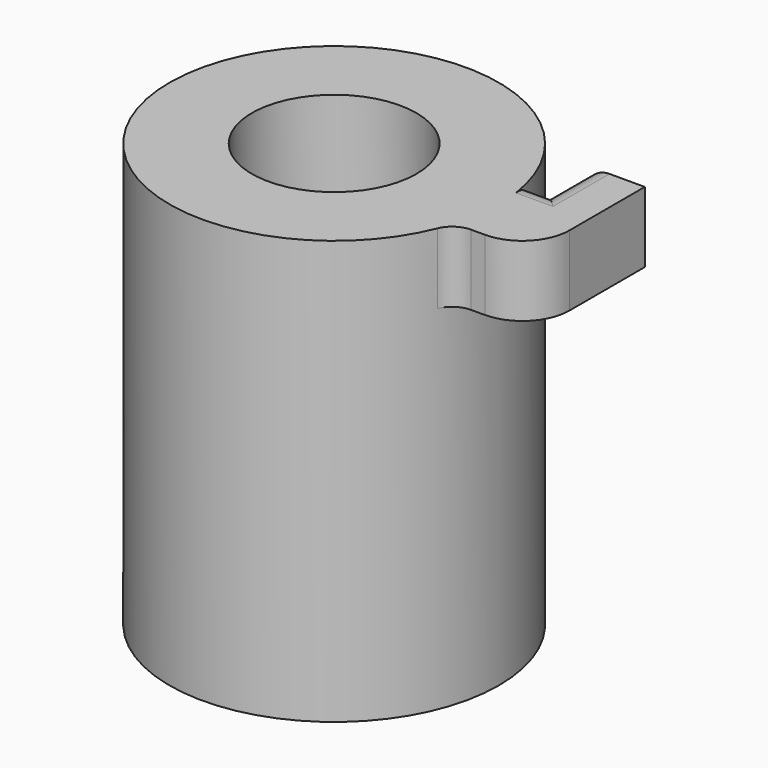
from build123d import *

# Parameters (mm, degrees)
SKETCH059_R     = 3.9
PAD013_DEPTH    = 10
SKETCH060_R     = 7
PAD014_DEPTH    = 8
SKETCH061_R     = 3.5
POCKET033_DEPTH = 6
SKETCH062_R     = 7
SKETCH062_R_2   = 5.1
PAD015_DEPTH    = 10
PAD016_DEPTH    = 3
FILLET014_R     = 2
FILLET015_R     = 1
FILLET016_R     = 1


with BuildPart() as part:
    # Sketch059 → Pad013 (new body)
    with BuildSketch(Plane.XY):
        Circle(SKETCH059_R)
    extrude(amount=PAD013_DEPTH)

    # Sketch060 → Pad014 (join)
    with BuildSketch(Plane.XY.offset(10)):
        Circle(SKETCH060_R)
    extrude(amount=PAD014_DEPTH)

    # Sketch061 → Pocket033 (cut)
    with BuildSketch(Plane.XY.offset(18)):
        Circle(SKETCH061_R)
    extrude(amount=-POCKET033_DEPTH, mode=Mode.SUBTRACT)

    # Sketch062 → Pad015 (join)
    with BuildSketch(Plane.XY.offset(10)):
        Circle(SKETCH062_R)
        Circle(SKETCH062_R_2, mode=Mode.SUBTRACT)
    extrude(amount=-PAD015_DEPTH)

    # Sketch063 → Pad016 (join)
    with BuildSketch(Plane.XY.offset(18)):
        Polygon((6, 2), (7.5, 2), (7.5, 4), (10, 4), (10, 2), (10, -2), (6, -2), align=None)
    extrude(amount=-PAD016_DEPTH)

    # Fillet014
    fillet014_edges = [part.edges().sort_by_distance(p)[0] for p in [
        (10, -2, 16.5),
    ]]
    fillet(fillet014_edges, radius=FILLET014_R)

    # Fillet015
    fillet015_edges = [part.edges().sort_by_distance(p)[0] for p in [
        (6.708204, -2, 16.5),
    ]]
    fillet(fillet015_edges, radius=FILLET015_R)

    # Fillet016
    fillet016_edges = [part.edges().sort_by_distance(p)[0] for p in [
        (7.104102, 2, 15),
        (7.5, 3, 15),
        (7.104102, 2, 18),
        (7.5, 3, 18),
    ]]
    fillet(fillet016_edges, radius=FILLET016_R)


solid = part.part
